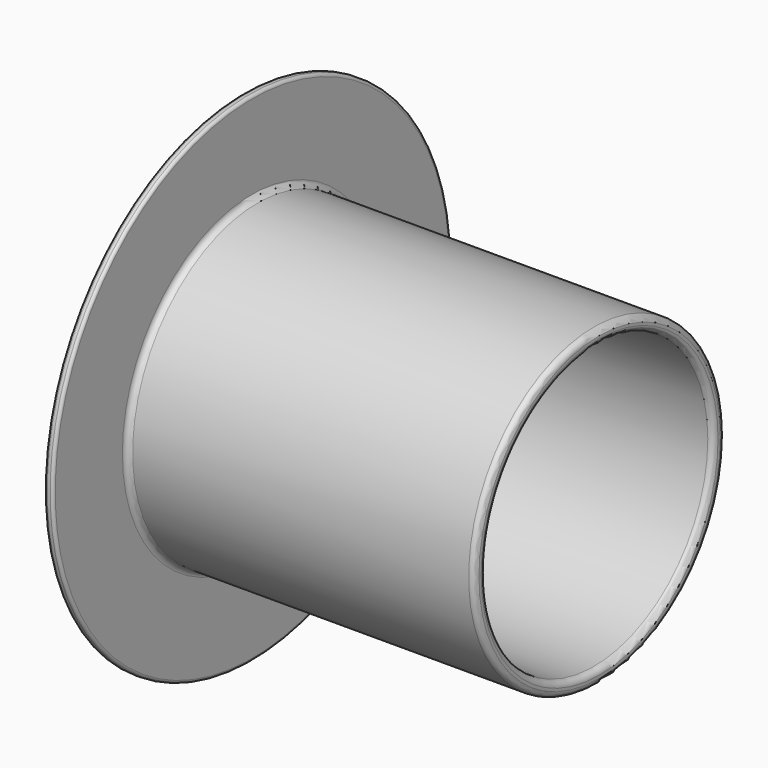
from build123d import *


with BuildPart() as f1:
    # F0 (on Top) → F1 (revolve)
    with BuildSketch(Plane.XY):
        with BuildLine():
            ThreePointArc((31.242, 12.7), (31.60121, 12.84879), (31.75, 13.208))
            Line((31.75, 13.208), (31.75, 13.462))
            ThreePointArc((31.75, 13.462), (31.60121, 13.82121), (31.242, 13.97))
            Line((31.242, 13.97), (1.27, 13.97))
            ThreePointArc((1.27, 13.97), (0.91079, 14.11879), (0.762, 14.478))
            Line((0.762, 14.478), (0.762, 21.971))
            ThreePointArc((0.762, 21.971), (0.687605, 22.150605), (0.508, 22.225))
            Line((0.508, 22.225), (0.254, 22.225))
            ThreePointArc((0.254, 22.225), (0.074395, 22.150605), (0, 21.971))
            Line((0, 21.971), (0, 13.208))
            ThreePointArc((0, 13.208), (0.14879, 12.84879), (0.508, 12.7))
            Line((0.508, 12.7), (31.242, 12.7))
        make_face()
    revolve(axis=Axis((15.759503, 0, 0), (1, 0, 0)))


solid = f1.part
